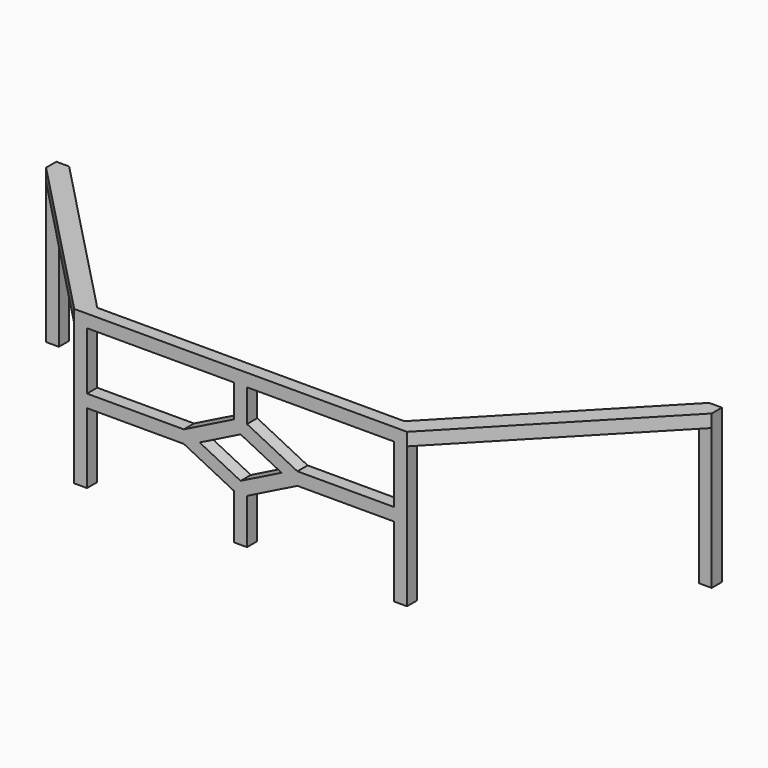
from build123d import *

# Parameters (mm, degrees)
F1_DEPTH = 3.175
F3_DEPTH = 3.175
F4_W     = 3.175
F4_H     = 3.175
F5_DEPTH = 38.1


with BuildPart() as f1:
    # F0 (on Front) → F1 (new body)
    with BuildSketch(Plane.XZ):
        Polygon((41.275, -19.05), (41.275, 19.05), (-41.275, 19.05), (-41.275, -19.05), (-38.1, -19.05), (-38.1, -1.5875), (-14.0845158286, -1.5875), (-1.5875, -7.8360079143), (-1.5875, -19.05), (1.5875, -19.05), (1.5875, -7.8360079143), (14.0845158286, -1.5875), (38.1, -1.5875), (38.1, -19.05), align=None)
        Polygon((-38.1, 1.5875), (-38.1, 15.875), (-1.5875, 15.875), (-1.5875, 7.8360079143), (-14.0845158286, 1.5875), align=None, mode=Mode.SUBTRACT)
        Polygon((0, -5.08), (-10.16, 0), (0, 5.08), (10.16, 0), align=None, mode=Mode.SUBTRACT)
        Polygon((1.5875, 15.875), (38.1, 15.875), (38.1, 1.5875), (14.0845158286, 1.5875), (1.5875, 7.8360079143), align=None, mode=Mode.SUBTRACT)
    extrude(amount=F1_DEPTH)

    # F2 (on face) → F3 (join)
    with BuildSketch(Plane.XY.offset(19.05)):
        Polygon((-82.55, 39.7002), (-41.275, -3.175), (-41.275, 0), (-38.1, 0), (-79.375, 42.8752), (-79.375, 39.7002), align=None)
        Polygon((79.375, 42.8752), (38.1, 0), (41.275, 0), (41.275, -3.175), (82.55, 39.7002), (79.375, 39.7002), align=None)
    extrude(amount=-F3_DEPTH)

    # F4 (on face) → F5 (join)
    with BuildSketch(Plane.XY.offset(19.05)):
        with Locations((-80.9625, 41.2877)):
            Rectangle(F4_W, F4_H)
        with Locations((80.9625, 41.2877)):
            Rectangle(F4_W, F4_H)
    extrude(amount=-F5_DEPTH)


solid = f1.part
